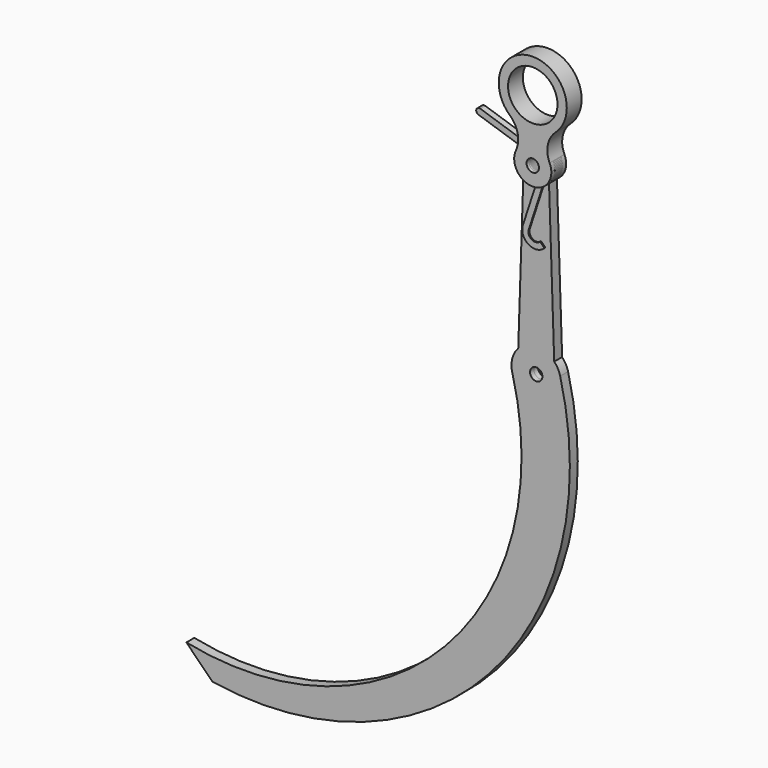
from build123d import *

# Parameters (mm, degrees)
F1_DEPTH = 4
F3_R     = 20
F3_R_2   = 5
F4_DEPTH = 7.5
F5_R     = 5
F6_DEPTH = 5


with BuildPart() as f1:
    # F0 (on Front) → F1 (new body, symmetric)
    with BuildSketch(Plane.XZ):
        with BuildLine():
            ThreePointArc((10.3615376685, -10.8461300539), (13.7917197083, -5.8981749284), (15, 0))
            ThreePointArc((15, 0), (-5.8981749284, 13.7917197083), (-10.3615376685, -10.8461300539))
            ThreePointArc((-10.3615376685, -10.8461300539), (-5.5815790415, -13.9228580185), (0, -15))
            ThreePointArc((0, -15), (5.5815790415, -13.9228580185), (10.3615376685, -10.8461300539))
        make_face()
        with BuildLine():
            ThreePointArc((5, 0), (3.5355339059, -3.5355339059), (0, -5))
            ThreePointArc((0, -5), (-3.5355339059, 3.5355339059), (5, 0))
        make_face(mode=Mode.SUBTRACT)
        with BuildLine():
            ThreePointArc((0, -15), (-5.5815790415, -13.9228580185), (-10.3615376685, -10.8461300539))
            Line((-10.3615376685, -10.8461300539), (-14.5423237184, -136.2697115518))
            ThreePointArc((-14.5423237184, -136.2697115518), (-7.9181510164, -131.6341925176), (0, -130))
            Line((0, -130), (0, -15))
        make_face()
        with BuildLine():
            Line((14.5423237184, -136.2697115518), (10.3615376685, -10.8461300539))
            ThreePointArc((10.3615376685, -10.8461300539), (5.5815790415, -13.9228580185), (0, -15))
            Line((0, -15), (0, -130))
            ThreePointArc((0, -130), (7.9181510164, -131.6341925176), (14.5423237184, -136.2697115518))
        make_face()
        with BuildLine():
            ThreePointArc((0, -130), (-7.9181510164, -131.6341925176), (-14.5423237184, -136.2697115518))
            ThreePointArc((-14.5423237184, -136.2697115518), (-19.3823141099, -145.0678706683), (-19.3363569345, -155.1093346436))
            ThreePointArc((-19.3363569345, -155.1093346436), (2.5761270649, -169.8333953055), (20, -150))
            ThreePointArc((20, -150), (19.8429078923, -147.4981993729), (19.3740993622, -145.0357000592))
            ThreePointArc((19.3740993622, -145.0357000592), (17.5154668015, -140.3455490717), (14.5423237184, -136.2697115518))
            ThreePointArc((14.5423237184, -136.2697115518), (7.9181510164, -131.6341925176), (0, -130))
        make_face()
        with BuildLine():
            ThreePointArc((5, -150), (-3.5355339059, -153.5355339059), (0, -145))
            ThreePointArc((0, -145), (3.5355339059, -146.4644660941), (5, -150))
        make_face(mode=Mode.SUBTRACT)
        with BuildLine():
            ThreePointArc((20, -150), (2.5761270649, -169.8333953055), (-19.3363569345, -155.1093346436))
            ThreePointArc((-19.3363569345, -155.1093346436), (-73.6456518499, -367.4528072618), (-282.8427124746, -432.8427124746))
            Line((-282.8427124746, -432.8427124746), (-261.629509039, -454.0559159102))
            ThreePointArc((-261.629509039, -454.0559159102), (-37.8398093147, -375.282597935), (19.3740993622, -145.0357000592))
            ThreePointArc((19.3740993622, -145.0357000592), (19.8429078923, -147.4981993729), (20, -150))
        make_face()
    extrude(amount=F1_DEPTH, both=True)


with BuildPart() as f4:
    # F3 (on Front) → F4 (new body, symmetric)
    with BuildSketch(Plane.XZ):
        with BuildLine():
            ThreePointArc((18.3926516847, 29.5559210526), (25.1201902991, 38.8095558919), (27.5, 50))
            ThreePointArc((27.5, 50), (-11.1904441081, 75.1201902991), (-18.3926516847, 29.5559210526))
            ThreePointArc((-18.3926516847, 29.5559210526), (0, 22.5), (18.3926516847, 29.5559210526))
        make_face()
        with Locations((0, 50)):
            Circle(F3_R, mode=Mode.SUBTRACT)
        with BuildLine():
            ThreePointArc((18.3926516847, 29.5559210526), (0, 22.5), (-18.3926516847, 29.5559210526))
            ThreePointArc((-18.3926516847, 29.5559210526), (-12.1780284186, 18.7110444293), (-13.6153395588, 6.2946428571))
            ThreePointArc((-13.6153395588, 6.2946428571), (0, -15), (13.6153395588, 6.2946428571))
            ThreePointArc((13.6153395588, 6.2946428571), (12.1780284186, 18.7110444293), (18.3926516847, 29.5559210526))
        make_face()
        Circle(F3_R_2, mode=Mode.SUBTRACT)
    extrude(amount=F4_DEPTH, both=True)


with BuildPart() as f6:
    # F5 (on Front) → F6 (new body)
    with BuildSketch(Plane.XZ):
        with BuildLine():
            ThreePointArc((9.5073655657, -3.1), (9.8760735026, -1.5694496397), (10, 0))
            ThreePointArc((10, 0), (8.0932070281, 5.8736700622), (3.1, 9.5073655657))
            ThreePointArc((3.1, 9.5073655657), (-2.0690041895, 9.7836200695), (-6.6836203438, 7.4383613181))
            ThreePointArc((-6.6836203438, 7.4383613181), (-8.914753611, -4.5306917854), (2.0690040311, -9.783620103))
            ThreePointArc((2.0690040311, -9.783620103), (6.683620103, -7.4383615346), (9.5073655657, -3.1))
        make_face()
        Circle(F5_R, mode=Mode.SUBTRACT)
        with BuildLine():
            ThreePointArc((-6.6836203438, 7.4383613181), (-2.0690041895, 9.7836200695), (3.1, 9.5073655657))
            Line((3.1, 9.5073655657), (-44.4368278285, 25.0073655657))
            ThreePointArc((-44.4368278285, 25.0073655657), (-47.5886693968, 23.4055240844), (-45.9868279155, 20.2536825162))
            Line((-45.9868279155, 20.2536825162), (-6.6836203438, 7.4383613181))
        make_face()
        with BuildLine():
            Line((-5.2290510611, -48.295), (9.5073655657, -3.1))
            ThreePointArc((9.5073655657, -3.1), (6.683620103, -7.4383615346), (2.0690040311, -9.783620103))
            Line((2.0690040311, -9.783620103), (-9.982733844, -46.745))
            ThreePointArc((-9.982733844, -46.745), (-5.4908617109, -58.9498847854), (7.4246212025, -57.4246212025))
            Line((7.4246212025, -57.4246212025), (3.8890872965, -53.8890872965))
            ThreePointArc((3.8890872965, -53.8890872965), (-2.8761656581, -54.6880348876), (-5.2290510611, -48.295))
        make_face()
    extrude(amount=F6_DEPTH)


solid = Compound([f1.part, f4.part, f6.part])
